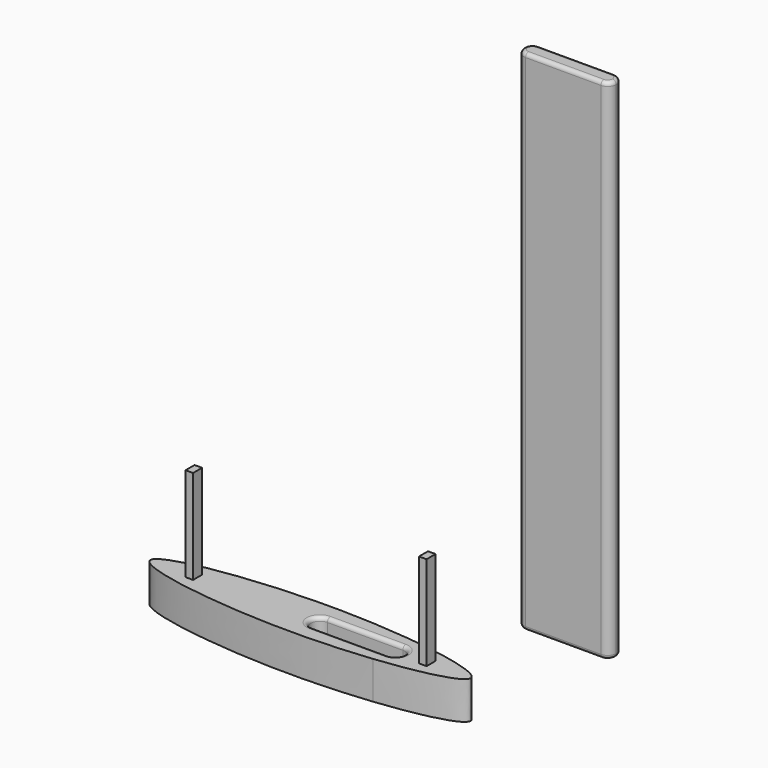
from build123d import *

# Parameters (mm, degrees)
F1_DEPTH = 135
F2_R     = 1
F4_DEPTH = 10
F6_DEPTH = 5
F7_R     = 1
F8_W     = 2
F8_H     = 3
F9_DEPTH = 25


with BuildPart() as f1:
    # F0 (on Top) → F1 (new body)
    with BuildSketch(Plane.XY):
        with BuildLine():
            ThreePointArc((26.114552, 38.752655), (27.705542, 39.411665), (28.364552, 41.002655))
            ThreePointArc((28.364552, 41.002655), (27.705542, 42.593645), (26.114552, 43.252655))
            ThreePointArc((26.114552, 43.252655), (23.864552, 41.002655), (26.114552, 38.752655))
        make_face()
        with BuildLine():
            ThreePointArc((26.114552, 43.252655), (27.705542, 42.593645), (28.364552, 41.002655))
            ThreePointArc((28.364552, 41.002655), (27.705542, 39.411665), (26.114552, 38.752655))
            Line((26.114552, 38.752655), (46.114552, 38.752655))
            ThreePointArc((46.114552, 38.752655), (43.864552, 41.002655), (46.114552, 43.252655))
            Line((46.114552, 43.252655), (26.114552, 43.252655))
        make_face()
        with BuildLine():
            ThreePointArc((48.364552, 41.002655), (47.705542, 42.593645), (46.114552, 43.252655))
            ThreePointArc((46.114552, 43.252655), (43.864552, 41.002655), (46.114552, 38.752655))
            ThreePointArc((46.114552, 38.752655), (47.705542, 39.411665), (48.364552, 41.002655))
        make_face()
    extrude(amount=F1_DEPTH)

    # F2
    f2_edges = [f1.edges().sort_by_distance(p)[0] for p in [
        (23.864552, 41.002655, 0),
        (36.114552, 38.752655, 0),
        (48.364552, 41.002655, 0),
        (36.114552, 43.252655, 0),
        (23.864552, 41.002655, 135),
        (36.114552, 38.752655, 135),
        (48.364552, 41.002655, 135),
        (36.114552, 43.252655, 135),
    ]]
    fillet(f2_edges, radius=F2_R)


with BuildPart() as f4:
    # F3 (on Top) → F4 (new body)
    with BuildSketch(Plane.XY):
        with BuildLine():
            Line((0, 0), (0, -7))
            add(Edge.make_bspline(
                [(0, -7), (7.380048, -7), (14.760095, -6.577848), (21.25, -5.880157)],
                knots=[0, 0, 0, 0, 14.958962, 14.958962, 14.958962, 14.958962], degree=3))
            Line((21.25, -5.880157), (21.25, 0))
            Line((21.25, 0), (0, 0))
        make_face()
        with BuildLine():
            add(Edge.make_bspline(
                [(0, -7), (-21.25, -7), (-63.75, 0), (-21.25, 7), (0, 7)],
                knots=[0, 0, 0, 0, 43.072613, 86.145226, 86.145226, 86.145226, 86.145226], degree=3))
            Line((0, -7), (0, 0))
            Line((0, 0), (0, 7))
        make_face()
        with BuildLine():
            Line((21.25, 0), (21.25, -5.880157))
            add(Edge.make_bspline(
                [(21.25, -5.880157), (33.447031, -4.568926), (42.5, -2.284463), (42.5, 0)],
                knots=[14.958962, 14.958962, 14.958962, 14.958962, 43.072613, 43.072613, 43.072613, 43.072613], degree=3))
            Line((42.5, 0), (21.25, 0))
        make_face()
        with BuildLine():
            Line((0, 7), (0, 0))
            Line((0, 0), (21.25, 0))
            Line((21.25, 0), (21.25, 5.880157))
            add(Edge.make_bspline(
                [(21.25, 5.880157), (14.760095, 6.577848), (7.380048, 7), (0, 7)],
                knots=[71.186265, 71.186265, 71.186265, 71.186265, 86.145226, 86.145226, 86.145226, 86.145226], degree=3))
        make_face()
        with BuildLine():
            Line((21.25, 0), (42.5, 0))
            add(Edge.make_bspline(
                [(42.5, 0), (42.5, 2.284463), (33.447031, 4.568926), (21.25, 5.880157)],
                knots=[43.072613, 43.072613, 43.072613, 43.072613, 71.186265, 71.186265, 71.186265, 71.186265], degree=3))
            Line((21.25, 5.880157), (21.25, 0))
        make_face()
    extrude(amount=F4_DEPTH)

    # F5 (on face) → F6 (cut)
    with BuildSketch(Plane.XY.offset(10)):
        with BuildLine():
            ThreePointArc((2.5, -2.5), (4.267767, -1.767767), (5, 0))
            ThreePointArc((5, 0), (4.267767, 1.767767), (2.5, 2.5))
            ThreePointArc((2.5, 2.5), (0, 0), (2.5, -2.5))
        make_face()
        with BuildLine():
            ThreePointArc((2.5, 2.5), (4.267767, 1.767767), (5, 0))
            ThreePointArc((5, 0), (4.267767, -1.767767), (2.5, -2.5))
            Line((2.5, -2.5), (22.5, -2.5))
            ThreePointArc((22.5, -2.5), (20, 0), (22.5, 2.5))
            Line((22.5, 2.5), (2.5, 2.5))
        make_face()
        with BuildLine():
            ThreePointArc((25, 0), (24.267767, 1.767767), (22.5, 2.5))
            ThreePointArc((22.5, 2.5), (20, 0), (22.5, -2.5))
            ThreePointArc((22.5, -2.5), (24.267767, -1.767767), (25, 0))
        make_face()
    extrude(amount=-F6_DEPTH, mode=Mode.SUBTRACT)

    # F7
    f7_edges = [f4.edges().sort_by_distance(p)[0] for p in [
        (0, 0, 5),
        (12.5, -2.5, 5),
        (25, 0, 5),
        (12.5, 2.5, 5),
        (0, 0, 10),
    ]]
    fillet(f7_edges, radius=F7_R)

    # F8 (on face) → F9 (join)
    with BuildSketch(Plane.XY.offset(10)):
        Polygon((-32, 1.5), (-32, -1.5), (-30, -1.5), (-30, 0), (-30, 1.5), align=None)
        with Locations((31, 0)):
            Rectangle(F8_W, F8_H)
    extrude(amount=F9_DEPTH)


solid = Compound([f1.part, f4.part])
